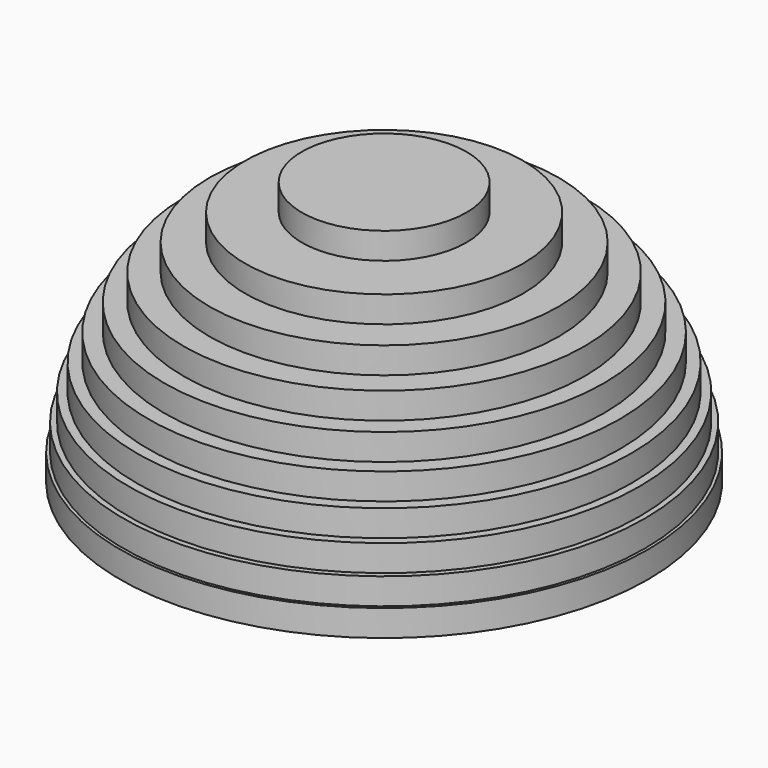
from build123d import *

# Parameters (mm, degrees)
F0_R      = 50.8
F1_DEPTH  = 5.08
F2_R      = 50.2158
F3_DEPTH  = 5.08
F4_R      = 49.1744
F5_DEPTH  = 5.08
F6_R      = 47.5742
F7_DEPTH  = 5.08
F8_R      = 45.3644
F9_DEPTH  = 5.08
F10_R     = 42.291
F11_DEPTH = 5.08
F12_R     = 38.608
F13_DEPTH = 5.08
F14_R     = 33.6042
F15_DEPTH = 5.08
F16_R     = 26.7716
F17_DEPTH = 5.08
F18_R     = 15.8496
F19_DEPTH = 5.08


with BuildPart() as f1:
    # F0 (on Top) → F1 (new body)
    with BuildSketch(Plane.XY):
        Circle(F0_R)
    extrude(amount=F1_DEPTH)

    # F2 (on face) → F3 (join)
    with BuildSketch(Plane.XY.offset(5.08)):
        Circle(F2_R)
    extrude(amount=F3_DEPTH)

    # F4 (on face) → F5 (join)
    with BuildSketch(Plane.XY.offset(10.16)):
        Circle(F4_R)
    extrude(amount=F5_DEPTH)

    # F6 (on face) → F7 (join)
    with BuildSketch(Plane.XY.offset(15.24)):
        Circle(F6_R)
    extrude(amount=F7_DEPTH)

    # F8 (on face) → F9 (join)
    with BuildSketch(Plane.XY.offset(20.32)):
        Circle(F8_R)
    extrude(amount=F9_DEPTH)

    # F10 (on face) → F11 (join)
    with BuildSketch(Plane.XY.offset(25.4)):
        Circle(F10_R)
    extrude(amount=F11_DEPTH)

    # F12 (on face) → F13 (join)
    with BuildSketch(Plane.XY.offset(30.48)):
        Circle(F12_R)
    extrude(amount=F13_DEPTH)

    # F14 (on face) → F15 (join)
    with BuildSketch(Plane.XY.offset(35.56)):
        Circle(F14_R)
    extrude(amount=F15_DEPTH)

    # F16 (on face) → F17 (join)
    with BuildSketch(Plane.XY.offset(40.64)):
        Circle(F16_R)
    extrude(amount=F17_DEPTH)

    # F18 (on face) → F19 (join)
    with BuildSketch(Plane.XY.offset(45.72)):
        Circle(F18_R)
    extrude(amount=F19_DEPTH)


solid = f1.part
